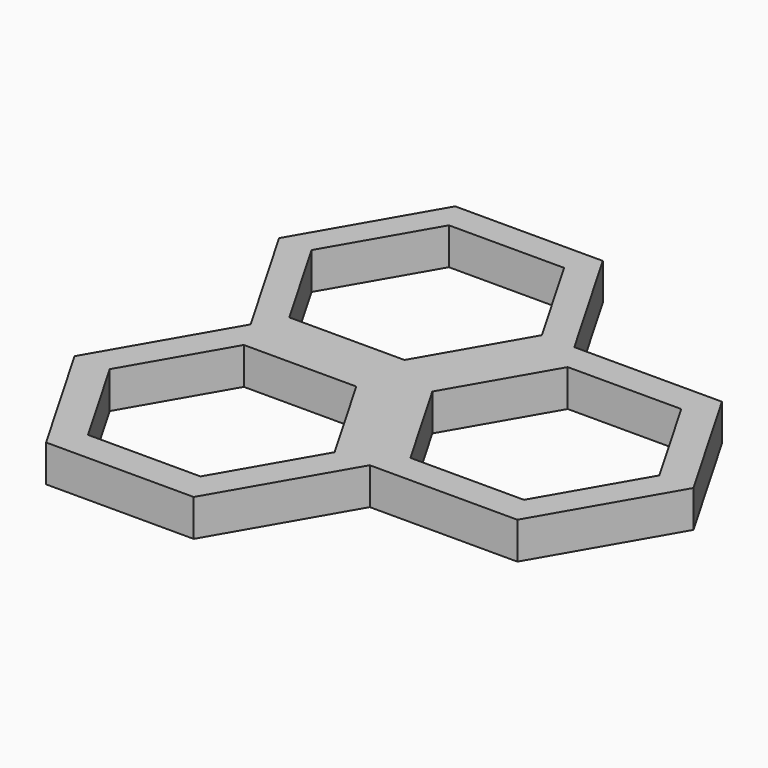
from build123d import *

# Parameters (mm, degrees)
F1_DEPTH = 6.35


with BuildPart() as f1:
    # F0 (on Top) → F1 (new body)
    with BuildSketch(Plane.XY):
        Polygon((-25.4, 43.994091), (-12.7, 21.997045), (12.7, 21.997045), (25.4, 43.994091), (12.7, 65.991136), (-12.7, 65.991136), align=None)
        Polygon((-19.819491, 43.994091), (-9.909746, 61.158273), (9.909746, 61.158273), (19.819491, 43.994091), (9.909746, 26.829908), (-9.909746, 26.829908), align=None, mode=Mode.SUBTRACT)
        Polygon((25.4, 43.994091), (12.7, 21.997045), (25.4, 0), (50.8, 0), (63.5, 21.997045), (50.8, 43.994091), align=None)
        Polygon((18.565879, 21.997045), (28.332939, 38.914091), (47.867061, 38.914091), (57.634121, 21.997045), (47.867061, 5.08), (28.332939, 5.08), align=None, mode=Mode.SUBTRACT)
        Polygon((12.7, 21.997045), (-12.7, 21.997045), (-25.4, 0), (-12.7, -21.997045), (12.7, -21.997045), (25.4, 0), align=None)
        Polygon((-19.347766, 0), (-9.673883, 16.755657), (9.673883, 16.755657), (19.347766, 0), (9.673883, -16.755657), (-9.673883, -16.755657), align=None, mode=Mode.SUBTRACT)
    extrude(amount=F1_DEPTH)


solid = f1.part
